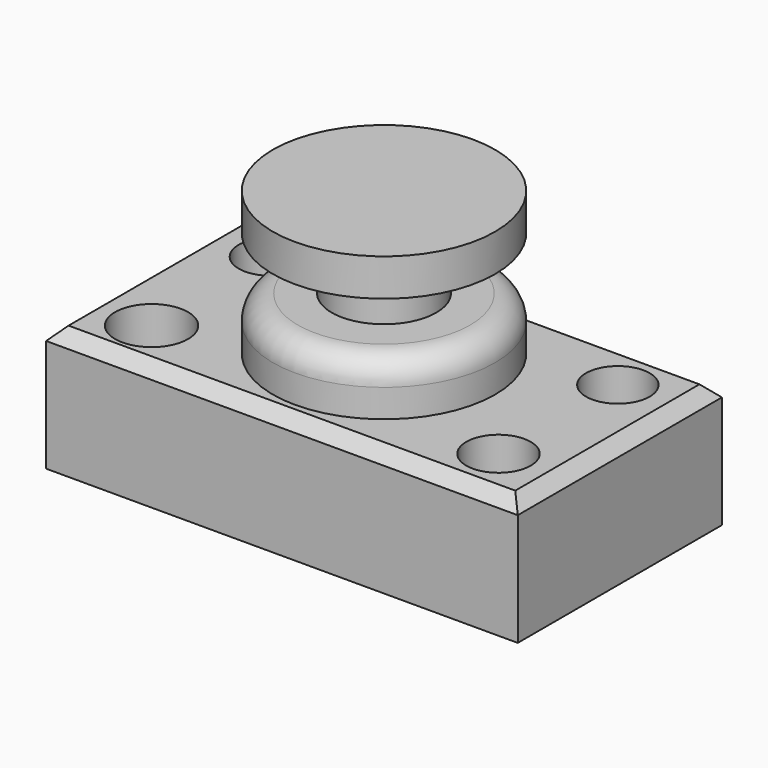
from build123d import *

# Parameters (mm, degrees)
F0_W     = 95.89541
F0_H     = 51.882624
F1_DEPTH = 25.4
F2_R     = 6.550096
F2_R_2   = 6.471805
F2_R_3   = 6.552092
F2_R_4   = 7.419752
F3_DEPTH = 25.4
F5_SIZE  = 2.54
F7_R     = 5.08


with BuildPart() as f1:
    # F0 (on Top) → F1 (new body)
    with BuildSketch(Plane.XY):
        Rectangle(F0_W, F0_H)
    extrude(amount=F1_DEPTH)

    # F2 (on face) → F3 (cut)
    with BuildSketch(Plane.XY.offset(25.4)):
        with Locations((-35.122789, 15.156721)):
            Circle(F2_R)
        with Locations((35.414264, 15.156721)):
            Circle(F2_R_2)
        with Locations((35.414264, -15.162325)):
            Circle(F2_R_3)
        with Locations((-35.122789, -15.162325)):
            Circle(F2_R_4)
    extrude(amount=-F3_DEPTH, mode=Mode.SUBTRACT)

    # F5
    f5_edges = [f1.edges().sort_by_distance(p)[0] for p in [
        (0, -25.941312, 25.4),
        (-47.947705, 0, 25.4),
        (47.947705, 0, 25.4),
        (0, 25.941312, 25.4),
    ]]
    chamfer(f5_edges, length=F5_SIZE)


with BuildPart() as f6:
    # F4 (on Front) → F6 (revolve)
    with BuildSketch(Plane.XZ):
        Polygon((0, 54.797381), (0, 25.649836), (22.589343, 25.649836), (22.589343, 36.434427), (10.638852, 36.434427), (10.638852, 47.219023), (22.589343, 47.219023), (22.589343, 54.797381), align=None)
    revolve(axis=Axis((0, 0, 27.398691), (0, 0, 1)))

    # F7
    f7_edges = [f6.edges().sort_by_distance(p)[0] for p in [
        (-22.589343, 0, 36.434427),
    ]]
    fillet(f7_edges, radius=F7_R)


solid = Compound([f1.part, f6.part])
